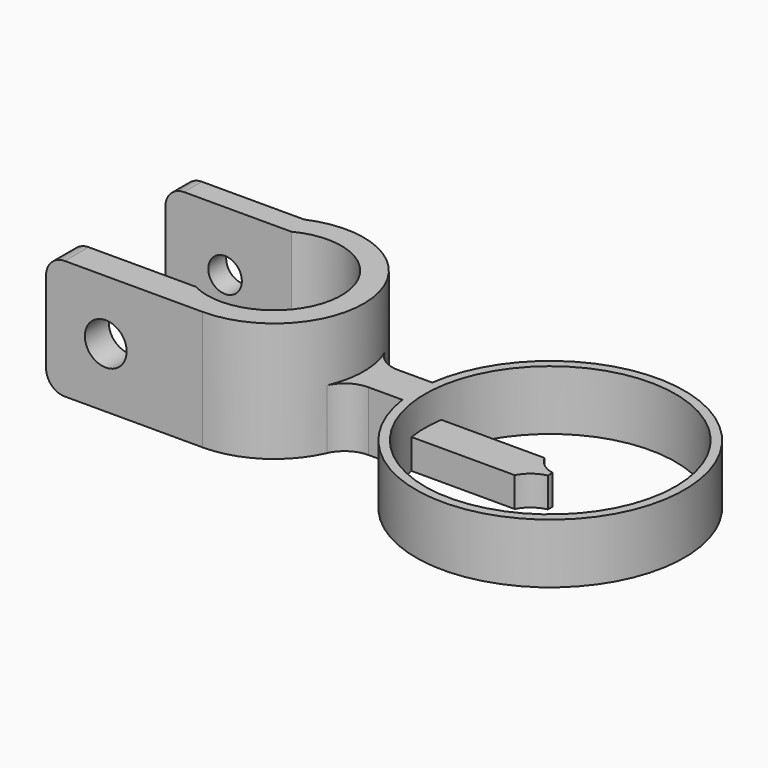
from build123d import *

# Parameters (mm, degrees)
PAD006_DEPTH        = 16
FILLET005_R         = 2.5
HOLE006_D           = 4.5
HOLE006_CBORE_D     = 5.6
HOLE006_CBORE_DEPTH = 4.4
PAD009_DEPTH        = 4
SKETCH027_R         = 16.8
PAD010_DEPTH        = 8


with BuildPart() as part:
    # Sketch023 → Pad006 (new body)
    with BuildSketch(Plane.XY):
        with BuildLine():
            Line((-4.795832, 11), (-21, 11))
            Line((-21, 11), (-21, 8))
            Line((-21, 8), (-4.123106, 8))
            ThreePointArc((-4.123106, -8), (9, 0), (-4.123106, 8))
            Line((-21, -8), (-4.123106, -8))
            Line((-21, -12), (-21, -8))
            Line((0, -12), (-21, -12))
            ThreePointArc((0, -12), (11.74734, 2.44949), (-4.795832, 11))
        make_face()
    extrude(amount=PAD006_DEPTH)

    # Fillet005
    fillet005_edges = [part.edges().sort_by_distance(p)[0] for p in [
        (-21, 9.5, 0),
        (-21, 9.5, 16),
        (-21, -10, 16),
        (-21, -10, 0),
    ]]
    fillet(fillet005_edges, radius=FILLET005_R)

    # Hole006 (through all)
    with Locations(Plane.XZ.offset(12)):
        with Locations((-13, 8)):
            CounterBoreHole(HOLE006_D / 2, HOLE006_CBORE_D / 2, HOLE006_CBORE_DEPTH)

    # Sketch028 → Pad009 (join)
    with BuildSketch(Plane.XY):
        with BuildLine():
            Line((14.620192, 2.5), (34.237617, 2.5))
            ThreePointArc((34.237617, 2.5), (35.379237, 1.134862), (37, 0.4))
            Line((37, 0.4), (37, -0.4))
            ThreePointArc((37, -0.4), (35.379237, -1.134862), (34.237617, -2.5))
            Line((14.620192, -2.5), (34.237617, -2.5))
            ThreePointArc((14.620192, -2.5), (12.440742, -3.145898), (10.965144, -4.875))
            Line((10.965144, 4.875), (10.965144, -4.875))
            ThreePointArc((10.965144, 4.875), (12.440742, 3.145898), (14.620192, 2.5))
        make_face()
    extrude(amount=PAD009_DEPTH)

    # Sketch027 → Pad010 (join)
    with BuildSketch(Plane.XY):
        with BuildLine():
            ThreePointArc((19.174457, -2.5), (55, 0), (19.174457, 2.5))
            Line((19.174457, 2.5), (14.620192, 2.5))
            ThreePointArc((10.965144, 4.875), (12.440742, 3.145898), (14.620192, 2.5))
            Line((10.965144, 4.875), (10.965144, -4.875))
            ThreePointArc((14.620192, -2.5), (12.440742, -3.145898), (10.965144, -4.875))
            Line((19.174457, -2.5), (14.620192, -2.5))
        make_face()
        with Locations((37, 0)):
            Circle(SKETCH027_R, mode=Mode.SUBTRACT)
    extrude(amount=PAD010_DEPTH)


solid = part.part
